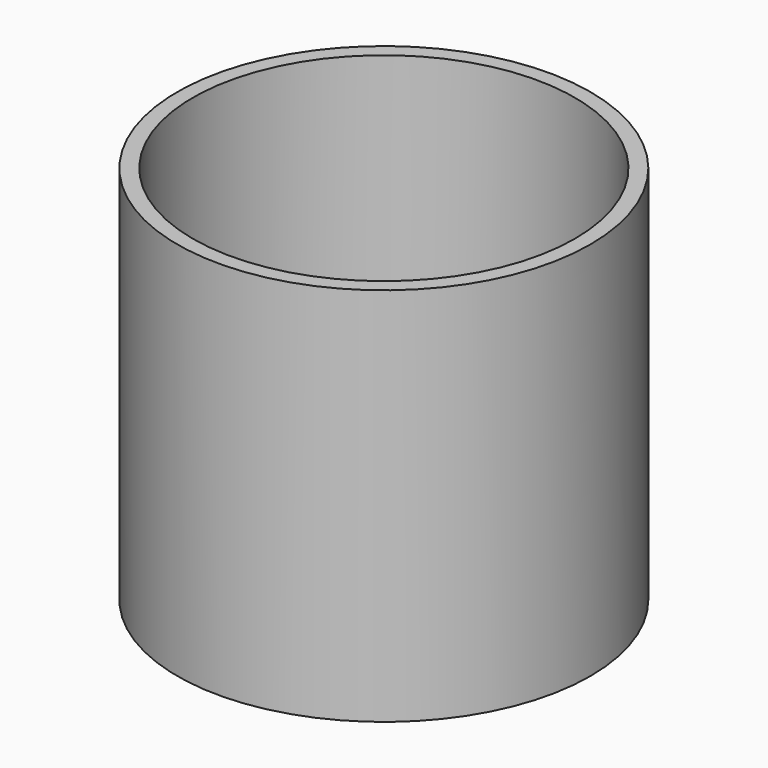
from build123d import *

# Parameters (mm, degrees)
F1_R     = 31.75
F1_R_2   = 29.36875
F2_DEPTH = 58.42
F0_R     = 29.36875
F4_DEPTH = 2.54
F5_R     = 3.175
F6_DEPTH = 58.421


with BuildPart() as f2:
    # F1 (on face) → F2 (new body)
    with BuildSketch(Plane.XY):
        Circle(F1_R)
        Circle(F1_R_2, mode=Mode.SUBTRACT)
    extrude(amount=F2_DEPTH)

    # F0 (on Top) → F4 (join)
    with BuildSketch(Plane.XY):
        Circle(F0_R)
    extrude(amount=F4_DEPTH)

    # F5 (on face) → F6 (cut, through all)
    with BuildSketch(Plane.XY):
        Circle(F5_R)
    extrude(amount=F6_DEPTH, mode=Mode.SUBTRACT)


solid = f2.part
